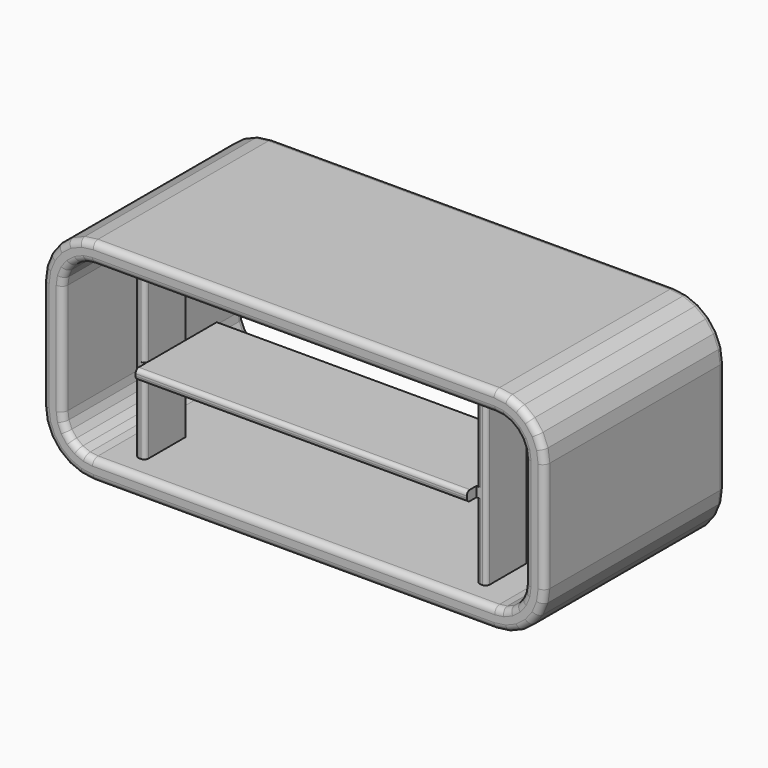
from build123d import *

# Parameters (mm, degrees)
PAD_DEPTH    = 450
FILLET_R     = 13
SKETCH001_W  = 20
SKETCH001_H  = 100
PAD001_DEPTH = 340
SKETCH002_W  = 202.29959
SKETCH002_H  = 20
PAD002_DEPTH = 330
FILLET001_R  = 8
FILLET002_R  = 8


with BuildPart() as mainbody001:
    # Sketch → Pad (new body)
    with BuildSketch(Plane.XZ):
        Polygon((0, 320), (0, 100), (3.407417, 74.118095), (13.39746, 50), (29.289322, 29.289322), (50, 13.39746), (74.118095, 3.407417), (100, 0), (900, 0), (925.881905, 3.407417), (950, 13.39746), (970.710678, 29.289322), (986.60254, 50), (996.592583, 74.118095), (1000, 100), (1000, 320), (996.592583, 345.881905), (986.60254, 370), (970.710678, 390.710678), (950, 406.60254), (925.881905, 416.592583), (900, 420), (100, 420), (74.118095, 416.592583), (50, 406.60254), (29.289322, 390.710678), (13.39746, 370), (3.407417, 345.881905), align=None)
        Polygon((100, 380), (900, 380), (915.529143, 377.95555), (930, 371.961524), (942.426407, 362.426407), (951.961524, 350), (957.95555, 335.529143), (960, 320), (960, 100), (957.95555, 84.470857), (951.961524, 70), (942.426407, 57.573593), (930, 48.038476), (915.529143, 42.04445), (900, 40), (100, 40), (84.470857, 42.04445), (70, 48.038476), (57.573593, 57.573593), (48.038476, 70), (42.04445, 84.470857), (40, 100), (40, 320), (42.04445, 335.529143), (48.038476, 350), (57.573593, 362.426407), (70, 371.961524), (84.470857, 377.95555), align=None, mode=Mode.SUBTRACT)
    extrude(amount=PAD_DEPTH)

    # Fillet
    fillet_edges = [mainbody001.edges().sort_by_distance(p)[0] for p in [
        (87.059048, 0, 418.296291),
        (62.059048, 0, 411.597562),
        (39.644661, 0, 398.656609),
        (21.343391, 0, 380.355339),
        (8.402438, 0, 357.940952),
        (1.703709, 0, 332.940952),
        (0, 0, 210),
        (1.703709, 0, 87.059048),
        (8.402438, 0, 62.059048),
        (21.343391, 0, 39.644661),
        (39.644661, 0, 21.343391),
        (62.059048, 0, 8.402438),
        (87.059048, 0, 1.703709),
        (500, 0, 0),
        (912.940952, 0, 1.703709),
        (937.940952, 0, 8.402438),
        (960.355339, 0, 21.343391),
        (978.656609, 0, 39.644661),
        (991.597562, 0, 62.059048),
        (998.296291, 0, 87.059048),
        (1000, 0, 210),
        (998.296291, 0, 332.940952),
        (991.597562, 0, 357.940952),
        (978.656609, 0, 380.355339),
        (960.355339, 0, 398.656609),
        (937.940952, 0, 411.597562),
        (912.940952, 0, 418.296291),
        (500, 0, 420),
        (500, 0, 380),
        (907.764571, 0, 378.977775),
        (922.764571, 0, 374.958537),
        (936.213203, 0, 367.193966),
        (947.193966, 0, 356.213203),
        (954.958537, 0, 342.764571),
        (958.977775, 0, 327.764571),
        (960, 0, 210),
        (958.977775, 0, 92.235429),
        (954.958537, 0, 77.235429),
        (947.193966, 0, 63.786797),
        (936.213203, 0, 52.806034),
        (922.764571, 0, 45.041463),
        (907.764571, 0, 41.022225),
        (500, 0, 40),
        (92.235429, 0, 41.022225),
        (77.235429, 0, 45.041463),
        (63.786797, 0, 52.806034),
        (52.806034, 0, 63.786797),
        (45.041463, 0, 77.235429),
        (41.022225, 0, 92.235429),
        (40, 0, 210),
        (41.022225, 0, 327.764571),
        (45.041463, 0, 342.764571),
        (52.806034, 0, 356.213203),
        (63.786797, 0, 367.193966),
        (77.235429, 0, 374.958537),
        (92.235429, 0, 378.977775),
        (87.059048, -450, 418.296291),
        (62.059048, -450, 411.597562),
        (39.644661, -450, 398.656609),
        (21.343391, -450, 380.355339),
        (8.402438, -450, 357.940952),
        (1.703709, -450, 332.940952),
        (0, -450, 210),
        (1.703709, -450, 87.059048),
        (8.402438, -450, 62.059048),
        (21.343391, -450, 39.644661),
        (39.644661, -450, 21.343391),
        (62.059048, -450, 8.402438),
        (87.059048, -450, 1.703709),
        (500, -450, 0),
        (912.940952, -450, 1.703709),
        (937.940952, -450, 8.402438),
        (960.355339, -450, 21.343391),
        (978.656609, -450, 39.644661),
        (991.597562, -450, 62.059048),
        (998.296291, -450, 87.059048),
        (1000, -450, 210),
        (998.296291, -450, 332.940952),
        (991.597562, -450, 357.940952),
        (978.656609, -450, 380.355339),
        (960.355339, -450, 398.656609),
        (937.940952, -450, 411.597562),
        (912.940952, -450, 418.296291),
        (500, -450, 420),
        (500, -450, 380),
        (907.764571, -450, 378.977775),
        (922.764571, -450, 374.958537),
        (936.213203, -450, 367.193966),
        (947.193966, -450, 356.213203),
        (954.958537, -450, 342.764571),
        (958.977775, -450, 327.764571),
        (960, -450, 210),
        (958.977775, -450, 92.235429),
        (954.958537, -450, 77.235429),
        (947.193966, -450, 63.786797),
        (936.213203, -450, 52.806034),
        (922.764571, -450, 45.041463),
        (907.764571, -450, 41.022225),
        (500, -450, 40),
        (92.235429, -450, 41.022225),
        (77.235429, -450, 45.041463),
        (63.786797, -450, 52.806034),
        (52.806034, -450, 63.786797),
        (45.041463, -450, 77.235429),
        (41.022225, -450, 92.235429),
        (40, -450, 210),
        (41.022225, -450, 327.764571),
        (45.041463, -450, 342.764571),
        (52.806034, -450, 356.213203),
        (63.786797, -450, 367.193966),
        (77.235429, -450, 374.958537),
        (92.235429, -450, 378.977775),
    ]]
    fillet(fillet_edges, radius=FILLET_R)


with BuildPart() as innershelf:
    # Sketch001 (on DatumPlane) → Pad001 (new body)
    with BuildSketch(Plane.XY.offset(40)):
        with Locations((156.744989, -96.70788)):
            Rectangle(SKETCH001_W, SKETCH001_H)
    pad001 = extrude(amount=PAD001_DEPTH)

    # Sketch002 (on Face3 of Pad001) → Pad002 (join)
    with BuildSketch(Plane(origin=(166.744989, 0, 40), x_dir=(0, 1, 0), z_dir=(1, 0, 0))):
        with Locations((-123.850205, 160)):
            Rectangle(SKETCH002_W, SKETCH002_H)
    pad002 = extrude(amount=PAD002_DEPTH)

    # Mirrored: Pad001, Pad002 across face of Pad002
    add(pad001.mirror(Plane(origin=(496.744989, -123.850205, 200), x_dir=(0, 1, 0), z_dir=(1, 0, 0))))
    add(pad002.mirror(Plane(origin=(496.744989, -123.850205, 200), x_dir=(0, 1, 0), z_dir=(1, 0, 0))))

    # Fillet001
    fillet001_edges = [innershelf.edges().sort_by_distance(p)[0] for p in [
        (331.744989, -22.70041, 190),
        (331.744989, -22.70041, 210),
        (661.744989, -22.70041, 190),
        (661.744989, -22.70041, 210),
    ]]
    fillet(fillet001_edges, radius=FILLET001_R)

    # Fillet002
    fillet002_edges = [innershelf.edges().sort_by_distance(p)[0] for p in [
        (846.744989, -46.70788, 210),
        (826.744989, -46.70788, 295),
        (826.744989, -46.70788, 115),
        (166.744989, -46.70788, 295),
        (166.744989, -46.70788, 115),
        (146.744989, -46.70788, 210),
    ]]
    fillet(fillet002_edges, radius=FILLET002_R)


with BuildPart() as part_mirroring:
    # Part__Mirroring: instance of InnerShelf
    add(innershelf.part.mirror(Plane(origin=(166.744989, -225, 210), x_dir=(1, 0, 0), z_dir=(0, 1, 0))))


solid = Compound([mainbody001.part, part_mirroring.part])
